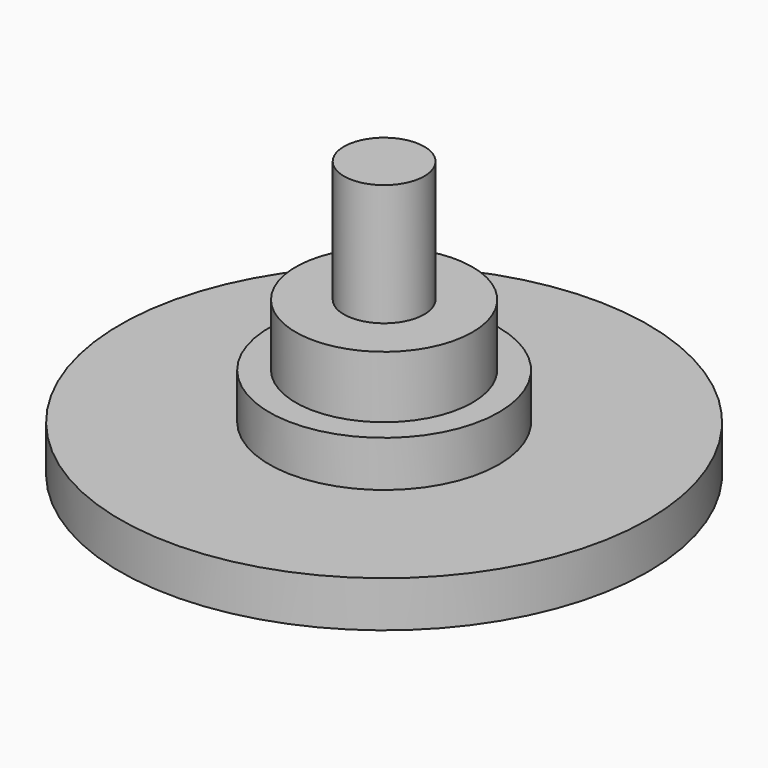
from build123d import *

# Parameters (mm, degrees)
F0_R     = 11.5
F0_R_2   = 5
F1_DEPTH = 2
F0_R_3   = 3.85
F2_DEPTH = 4
F0_R_4   = 1.75
F3_DEPTH = 12
F4_DEPTH = 6.7


with BuildPart() as f1:
    # F0 (on Top) → F1 (new body)
    with BuildSketch(Plane.XY):
        Circle(F0_R)
        Circle(F0_R_2, mode=Mode.SUBTRACT)
    extrude(amount=F1_DEPTH)

    # F0 (on Top) → F2 (join)
    with BuildSketch(Plane.XY):
        Circle(F0_R_2)
        Circle(F0_R_3, mode=Mode.SUBTRACT)
    extrude(amount=F2_DEPTH)


with BuildPart() as f3:
    # F0 (on Top) → F3 (new body)
    with BuildSketch(Plane.XY):
        Circle(F0_R_4)
    extrude(amount=F3_DEPTH)


with BuildPart() as f4:
    # F0 (on Top) → F4 (new body)
    with BuildSketch(Plane.XY):
        Circle(F0_R_3)
        Circle(F0_R_4, mode=Mode.SUBTRACT)
    extrude(amount=F4_DEPTH)


solid = Compound([f1.part, f3.part, f4.part])
